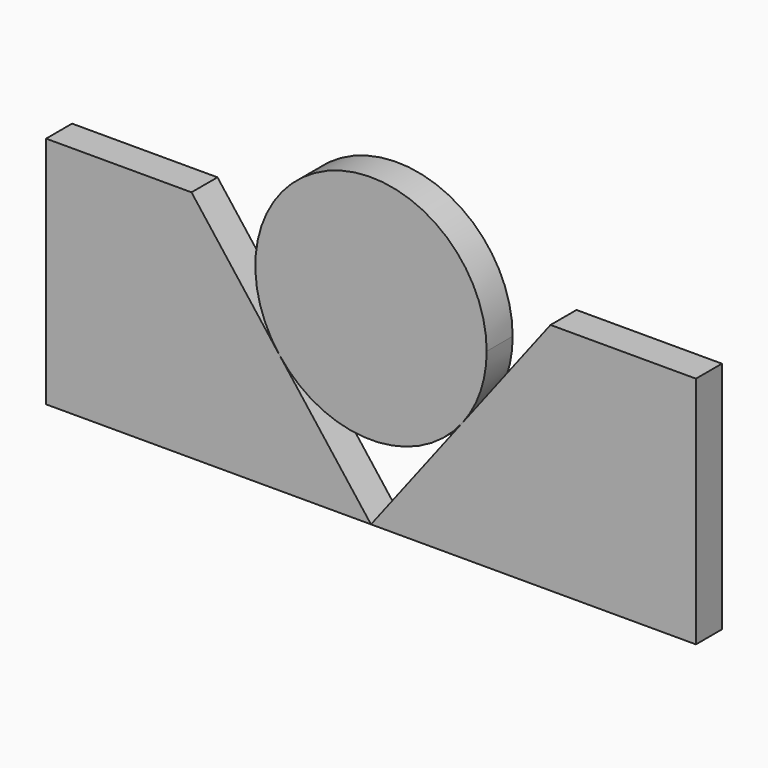
from build123d import *

# Parameters (mm, degrees)
F1_DEPTH = 25
F2_DEPTH = 25


with BuildPart() as f1:
    # F0 (on Front) → F1 (new body)
    with BuildSketch(Plane.XZ):
        with BuildLine():
            ThreePointArc((-70.608447, 92.01872), (-1e-06, 57.198487), (70.608447, 92.018719))
            ThreePointArc((70.608447, 92.018719), (84.276781, 117.590374), (89, 146.198487))
            ThreePointArc((89, 146.198487), (-28.608112, 230.475269), (-70.608447, 92.01872))
        make_face()
    extrude(amount=F1_DEPTH)

    # F0 (on Front) → F2 (join)
    with BuildSketch(Plane.XZ):
        Polygon((-250, 0), (0, 0), (-70.608447, 92.01872), (-138.118858, 180), (-250, 180), align=None)
        Polygon((70.608447, 92.018719), (0, 0), (250, 0), (250, 180), (138.118858, 180), align=None)
    extrude(amount=F2_DEPTH)


solid = f1.part
